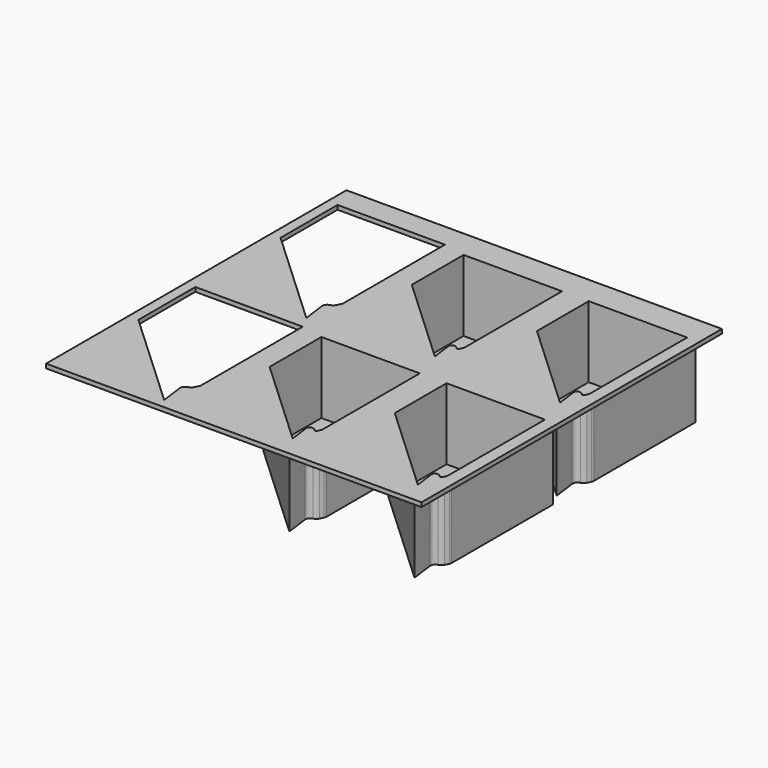
from build123d import *

# Parameters (mm, degrees)
F1_DEPTH = 38.1
F0_W     = 190.5
F0_H     = 190.5
F2_DEPTH = 2.159
F5_DEPTH = 1.905


with BuildPart() as f1:
    # F0 (on Top) → F1 (new body)
    with BuildSketch(Plane.XY):
        with BuildLine():
            ThreePointArc((72.0782338403, -72.4890221543), (72.2764898364, -71.9390746235), (72.3437630109, -71.358366395))
            Line((72.3437630109, -71.358366395), (72.3437630109, -6.9999878642))
            Line((72.3437630109, -6.9999878642), (17.8223712996, -6.9999878642))
            Line((17.8223712996, -6.9999878642), (17.8223712996, -43.112684))
            Line((17.8223712996, -43.112684), (68.7632503296, -90.4163775524))
            Line((68.7632503296, -90.4163775524), (67.2103853279, -78.6976437184))
            ThreePointArc((67.2103853279, -78.6976437184), (67.642280367, -76.9149091055), (69.1621273878, -75.8879032349))
            ThreePointArc((69.1621273878, -75.8879032349), (70.34845738, -75.3207077832), (71.1778330484, -74.3003031911))
            Line((71.1778330484, -74.3003031911), (72.0782338403, -72.4890221543))
        make_face()
        with BuildLine():
            Line((65.6623095274, -84.4172274415), (20.1083738357, -42.115848763))
            Line((20.1083738357, -42.115848763), (20.1083738357, -9.2859904003))
            Line((20.1083738357, -9.2859904003), (70.0577604748, -9.2859904003))
            Line((70.0577604748, -9.2859904003), (70.0577604748, -71.418016501))
            Line((70.0577604748, -71.418016501), (69.1308070309, -73.2827118787))
            ThreePointArc((69.1308070309, -73.2827118787), (68.5904715317, -73.6707487579), (67.9656927684, -73.4423049611))
            Line((67.9656927684, -73.4423049611), (67.7194629988, -73.1691417889))
            ThreePointArc((67.7194629988, -73.1691417889), (66.7984934635, -72.5458506783), (65.6932154198, -72.4232246633))
            Line((65.6932154198, -72.4232246633), (65.5843092936, -72.4376559588))
            ThreePointArc((65.5843092936, -72.4376559588), (64.5929725961, -73.0111207367), (64.297492528, -74.1176024711))
            Line((64.297492528, -74.1176024711), (65.6623095274, -84.4172274415))
        make_face(mode=Mode.SUBTRACT)
    extrude(amount=-F1_DEPTH)



with BuildPart() as f1b:
    # F0 (on Top) → F1, piece 2 (new body)
    with BuildSketch(Plane.XY):
        with BuildLine():
            Line((17.8223712996, 83.1700121358), (17.8223712996, 47.057316))
            Line((17.8223712996, 47.057316), (68.7632503296, -0.2463775524))
            Line((68.7632503296, -0.2463775524), (67.2103853279, 11.4723562816))
            ThreePointArc((67.2103853279, 11.4723562816), (67.642280367, 13.2550908945), (69.1621273878, 14.2820967651))
            ThreePointArc((69.1621273878, 14.2820967651), (70.34845738, 14.8492922168), (71.1778330484, 15.8696968089))
            Line((71.1778330484, 15.8696968089), (72.0782338403, 17.6809778457))
            ThreePointArc((72.0782338403, 17.6809778457), (72.2764898364, 18.2309253765), (72.3437630109, 18.811633605))
            Line((72.3437630109, 18.811633605), (72.3437630109, 83.1700121358))
            Line((72.3437630109, 83.1700121358), (17.8223712996, 83.1700121358))
        make_face()
        with BuildLine():
            Line((20.1083738357, 48.054151237), (20.1083738357, 80.8840095997))
            Line((20.1083738357, 80.8840095997), (70.0577604748, 80.8840095997))
            Line((70.0577604748, 80.8840095997), (70.0577604748, 18.751983499))
            Line((70.0577604748, 18.751983499), (69.1308070309, 16.8872881213))
            ThreePointArc((69.1308070309, 16.8872881213), (68.5904715317, 16.4992512421), (67.9656927684, 16.7276950389))
            Line((67.9656927684, 16.7276950389), (67.7194629988, 17.0008582111))
            ThreePointArc((67.7194629988, 17.0008582111), (66.7984934635, 17.6241493217), (65.6932154198, 17.7467753367))
            Line((65.6932154198, 17.7467753367), (65.5843092936, 17.7323440412))
            ThreePointArc((65.5843092936, 17.7323440412), (64.5929725961, 17.1588792633), (64.297492528, 16.0523975289))
            Line((64.297492528, 16.0523975289), (65.6623095274, 5.7527725585))
            Line((65.6623095274, 5.7527725585), (20.1083738357, 48.054151237))
        make_face(mode=Mode.SUBTRACT)
    extrude(amount=-F1_DEPTH)


with BuildPart() as f1c:
    # F0 (on Top) → F1, piece 3 (new body)
    with BuildSketch(Plane.XY):
        with BuildLine():
            ThreePointArc((8.5782338403, 17.6809778457), (8.7764898364, 18.2309253765), (8.8437630109, 18.811633605))
            Line((8.8437630109, 18.811633605), (8.8437630109, 83.1700121358))
            Line((8.8437630109, 83.1700121358), (-45.6776287004, 83.1700121358))
            Line((-45.6776287004, 83.1700121358), (-45.6776287004, 47.057316))
            Line((-45.6776287004, 47.057316), (5.2632503296, -0.2463775524))
            Line((5.2632503296, -0.2463775524), (3.7103853279, 11.4723562816))
            ThreePointArc((3.7103853279, 11.4723562816), (4.142280367, 13.2550908945), (5.6621273878, 14.2820967651))
            ThreePointArc((5.6621273878, 14.2820967651), (6.84845738, 14.8492922168), (7.6778330484, 15.8696968089))
            Line((7.6778330484, 15.8696968089), (8.5782338403, 17.6809778457))
        make_face()
        with BuildLine():
            Line((2.1623095274, 5.7527725585), (-43.3916261643, 48.054151237))
            Line((-43.3916261643, 48.054151237), (-43.3916261643, 80.8840095997))
            Line((-43.3916261643, 80.8840095997), (6.5577604748, 80.8840095997))
            Line((6.5577604748, 80.8840095997), (6.5577604748, 18.751983499))
            Line((6.5577604748, 18.751983499), (5.6308070309, 16.8872881213))
            ThreePointArc((5.6308070309, 16.8872881213), (5.0904715317, 16.4992512421), (4.4656927684, 16.7276950389))
            Line((4.4656927684, 16.7276950389), (4.2194629988, 17.0008582111))
            ThreePointArc((4.2194629988, 17.0008582111), (3.2984934635, 17.6241493217), (2.1932154198, 17.7467753367))
            Line((2.1932154198, 17.7467753367), (2.0843092936, 17.7323440412))
            ThreePointArc((2.0843092936, 17.7323440412), (1.0929725961, 17.1588792633), (0.797492528, 16.0523975289))
            Line((0.797492528, 16.0523975289), (2.1623095274, 5.7527725585))
        make_face(mode=Mode.SUBTRACT)
    extrude(amount=-F1_DEPTH)


with BuildPart() as f1d:
    # F0 (on Top) → F1, piece 4 (new body)
    with BuildSketch(Plane.XY):
        with BuildLine():
            ThreePointArc((8.5782338403, -72.4890221543), (8.7764898364, -71.9390746235), (8.8437630109, -71.358366395))
            Line((8.8437630109, -71.358366395), (8.8437630109, -6.9999878642))
            Line((8.8437630109, -6.9999878642), (-45.6776287004, -6.9999878642))
            Line((-45.6776287004, -6.9999878642), (-45.6776287004, -43.112684))
            Line((-45.6776287004, -43.112684), (5.2632503296, -90.4163775524))
            Line((5.2632503296, -90.4163775524), (3.7103853279, -78.6976437184))
            ThreePointArc((3.7103853279, -78.6976437184), (4.142280367, -76.9149091055), (5.6621273878, -75.8879032349))
            ThreePointArc((5.6621273878, -75.8879032349), (6.84845738, -75.3207077832), (7.6778330484, -74.3003031911))
            Line((7.6778330484, -74.3003031911), (8.5782338403, -72.4890221543))
        make_face()
        with BuildLine():
            Line((2.1623095274, -84.4172274415), (-43.3916261643, -42.115848763))
            Line((-43.3916261643, -42.115848763), (-43.3916261643, -9.2859904003))
            Line((-43.3916261643, -9.2859904003), (6.5577604748, -9.2859904003))
            Line((6.5577604748, -9.2859904003), (6.5577604748, -71.418016501))
            Line((6.5577604748, -71.418016501), (5.6308070309, -73.2827118787))
            ThreePointArc((5.6308070309, -73.2827118787), (5.0904715317, -73.6707487579), (4.4656927684, -73.4423049611))
            Line((4.4656927684, -73.4423049611), (4.2194629988, -73.1691417889))
            ThreePointArc((4.2194629988, -73.1691417889), (3.2984934635, -72.5458506783), (2.1932154198, -72.4232246633))
            Line((2.1932154198, -72.4232246633), (2.0843092936, -72.4376559588))
            ThreePointArc((2.0843092936, -72.4376559588), (1.0929725961, -73.0111207367), (0.797492528, -74.1176024711))
            Line((0.797492528, -74.1176024711), (2.1623095274, -84.4172274415))
        make_face(mode=Mode.SUBTRACT)
    extrude(amount=-F1_DEPTH)


with BuildPart() as f1_1:
    add(f1.part)

    add(f1b.part)  # F2 merges F1b

    add(f1c.part)  # F2 merges F1c

    add(f1d.part)  # F2 merges F1d
    # F0 (on Top) → F2 (join)
    with BuildSketch(Plane.XY):
        with Locations((-19.05, 0)):
            Rectangle(F0_W, F0_H)
        with BuildLine():
            Line((-54.6562369891, -6.9999878642), (-54.6562369891, -71.358366395))
            ThreePointArc((-54.6562369891, -71.358366395), (-54.7235101636, -71.9390746235), (-54.9217661597, -72.4890221543))
            Line((-54.9217661597, -72.4890221543), (-55.8221669516, -74.3003031911))
            ThreePointArc((-55.8221669516, -74.3003031911), (-56.65154262, -75.3207077832), (-57.8378726122, -75.8879032349))
            ThreePointArc((-57.8378726122, -75.8879032349), (-59.357719633, -76.9149091055), (-59.7896146721, -78.6976437184))
            Line((-59.7896146721, -78.6976437184), (-58.2367496704, -90.4163775524))
            Line((-58.2367496704, -90.4163775524), (-109.1776287004, -43.112684))
            Line((-109.1776287004, -43.112684), (-109.1776287004, -6.9999878642))
            Line((-109.1776287004, -6.9999878642), (-54.6562369891, -6.9999878642))
        make_face(mode=Mode.SUBTRACT)
        with BuildLine():
            Line((8.8437630109, -6.9999878642), (8.8437630109, -71.358366395))
            ThreePointArc((8.8437630109, -71.358366395), (8.7764898364, -71.9390746235), (8.5782338403, -72.4890221543))
            Line((8.5782338403, -72.4890221543), (7.6778330484, -74.3003031911))
            ThreePointArc((7.6778330484, -74.3003031911), (6.84845738, -75.3207077832), (5.6621273878, -75.8879032349))
            ThreePointArc((5.6621273878, -75.8879032349), (4.142280367, -76.9149091055), (3.7103853279, -78.6976437184))
            Line((3.7103853279, -78.6976437184), (5.2632503296, -90.4163775524))
            Line((5.2632503296, -90.4163775524), (-45.6776287004, -43.112684))
            Line((-45.6776287004, -43.112684), (-45.6776287004, -6.9999878642))
            Line((-45.6776287004, -6.9999878642), (8.8437630109, -6.9999878642))
        make_face(mode=Mode.SUBTRACT)
        with BuildLine():
            Line((72.3437630109, -6.9999878642), (72.3437630109, -71.358366395))
            ThreePointArc((72.3437630109, -71.358366395), (72.2764898364, -71.9390746235), (72.0782338403, -72.4890221543))
            Line((72.0782338403, -72.4890221543), (71.1778330484, -74.3003031911))
            ThreePointArc((71.1778330484, -74.3003031911), (70.34845738, -75.3207077832), (69.1621273878, -75.8879032349))
            ThreePointArc((69.1621273878, -75.8879032349), (67.642280367, -76.9149091055), (67.2103853279, -78.6976437184))
            Line((67.2103853279, -78.6976437184), (68.7632503296, -90.4163775524))
            Line((68.7632503296, -90.4163775524), (17.8223712996, -43.112684))
            Line((17.8223712996, -43.112684), (17.8223712996, -6.9999878642))
            Line((17.8223712996, -6.9999878642), (72.3437630109, -6.9999878642))
        make_face(mode=Mode.SUBTRACT)
        with BuildLine():
            Line((-54.6562369891, 83.1700121358), (-54.6562369891, 18.811633605))
            ThreePointArc((-54.6562369891, 18.811633605), (-54.7235101636, 18.2309253765), (-54.9217661597, 17.6809778457))
            Line((-54.9217661597, 17.6809778457), (-55.8221669516, 15.8696968089))
            ThreePointArc((-55.8221669516, 15.8696968089), (-56.65154262, 14.8492922168), (-57.8378726122, 14.2820967651))
            ThreePointArc((-57.8378726122, 14.2820967651), (-59.357719633, 13.2550908945), (-59.7896146721, 11.4723562816))
            Line((-59.7896146721, 11.4723562816), (-58.2367496704, -0.2463775524))
            Line((-58.2367496704, -0.2463775524), (-109.1776287004, 47.057316))
            Line((-109.1776287004, 47.057316), (-109.1776287004, 83.1700121358))
            Line((-109.1776287004, 83.1700121358), (-54.6562369891, 83.1700121358))
        make_face(mode=Mode.SUBTRACT)
        with BuildLine():
            Line((8.8437630109, 83.1700121358), (8.8437630109, 18.811633605))
            ThreePointArc((8.8437630109, 18.811633605), (8.7764898364, 18.2309253765), (8.5782338403, 17.6809778457))
            Line((8.5782338403, 17.6809778457), (7.6778330484, 15.8696968089))
            ThreePointArc((7.6778330484, 15.8696968089), (6.84845738, 14.8492922168), (5.6621273878, 14.2820967651))
            ThreePointArc((5.6621273878, 14.2820967651), (4.142280367, 13.2550908945), (3.7103853279, 11.4723562816))
            Line((3.7103853279, 11.4723562816), (5.2632503296, -0.2463775524))
            Line((5.2632503296, -0.2463775524), (-45.6776287004, 47.057316))
            Line((-45.6776287004, 47.057316), (-45.6776287004, 83.1700121358))
            Line((-45.6776287004, 83.1700121358), (8.8437630109, 83.1700121358))
        make_face(mode=Mode.SUBTRACT)
        with BuildLine():
            Line((68.7632503296, -0.2463775524), (17.8223712996, 47.057316))
            Line((17.8223712996, 47.057316), (17.8223712996, 83.1700121358))
            Line((17.8223712996, 83.1700121358), (72.3437630109, 83.1700121358))
            Line((72.3437630109, 83.1700121358), (72.3437630109, 18.811633605))
            ThreePointArc((72.3437630109, 18.811633605), (72.2764898364, 18.2309253765), (72.0782338403, 17.6809778457))
            Line((72.0782338403, 17.6809778457), (71.1778330484, 15.8696968089))
            ThreePointArc((71.1778330484, 15.8696968089), (70.34845738, 14.8492922168), (69.1621273878, 14.2820967651))
            ThreePointArc((69.1621273878, 14.2820967651), (67.642280367, 13.2550908945), (67.2103853279, 11.4723562816))
            Line((67.2103853279, 11.4723562816), (68.7632503296, -0.2463775524))
        make_face(mode=Mode.SUBTRACT)
    extrude(amount=-F2_DEPTH)

    # F4 (on offset) → F5 (join)
    with BuildSketch(Plane(origin=(0, 0, -38.1), x_dir=(1, 0, 0), z_dir=(0, 0, -1))):
        with BuildLine():
            ThreePointArc((72.3437630109, -18.811633605), (72.2764898364, -18.2309253765), (72.0782338403, -17.6809778457))
            Line((72.0782338403, -17.6809778457), (71.1778330484, -15.8696968089))
            ThreePointArc((71.1778330484, -15.8696968089), (70.34845738, -14.8492922168), (69.1621273878, -14.2820967651))
            ThreePointArc((69.1621273878, -14.2820967651), (67.642280367, -13.2550908945), (67.2103853279, -11.4723562816))
            Line((67.2103853279, -11.4723562816), (68.7632503296, 0.2463775524))
            Line((68.7632503296, 0.2463775524), (17.8223712996, -47.057316))
            Line((17.8223712996, -47.057316), (17.8223712996, -83.1700121358))
            Line((17.8223712996, -83.1700121358), (72.3437630109, -83.1700121358))
            Line((72.3437630109, -83.1700121358), (72.3437630109, -18.811633605))
        make_face()
        with BuildLine():
            ThreePointArc((7.6778330484, -15.8696968089), (6.84845738, -14.8492922168), (5.6621273878, -14.2820967651))
            ThreePointArc((5.6621273878, -14.2820967651), (4.142280367, -13.2550908945), (3.7103853279, -11.4723562816))
            Line((3.7103853279, -11.4723562816), (5.2632503296, 0.2463775524))
            Line((5.2632503296, 0.2463775524), (-45.6776287004, -47.057316))
            Line((-45.6776287004, -47.057316), (-45.6776287004, -83.1700121358))
            Line((-45.6776287004, -83.1700121358), (8.8437630109, -83.1700121358))
            Line((8.8437630109, -83.1700121358), (8.8437630109, -18.811633605))
            ThreePointArc((8.8437630109, -18.811633605), (8.7764898364, -18.2309253765), (8.5782338403, -17.6809778457))
            Line((8.5782338403, -17.6809778457), (7.6778330484, -15.8696968089))
        make_face()
        with BuildLine():
            ThreePointArc((71.1778330484, 74.3003031911), (70.34845738, 75.3207077832), (69.1621273878, 75.8879032349))
            ThreePointArc((69.1621273878, 75.8879032349), (67.642280367, 76.9149091055), (67.2103853279, 78.6976437184))
            Line((67.2103853279, 78.6976437184), (68.7632503296, 90.4163775524))
            Line((68.7632503296, 90.4163775524), (17.8223712996, 43.112684))
            Line((17.8223712996, 43.112684), (17.8223712996, 6.9999878642))
            Line((17.8223712996, 6.9999878642), (72.3437630109, 6.9999878642))
            Line((72.3437630109, 6.9999878642), (72.3437630109, 71.358366395))
            ThreePointArc((72.3437630109, 71.358366395), (72.2764898364, 71.9390746235), (72.0782338403, 72.4890221543))
            Line((72.0782338403, 72.4890221543), (71.1778330484, 74.3003031911))
        make_face()
        with BuildLine():
            ThreePointArc((7.6778330484, 74.3003031911), (6.84845738, 75.3207077832), (5.6621273878, 75.8879032349))
            ThreePointArc((5.6621273878, 75.8879032349), (4.142280367, 76.9149091055), (3.7103853279, 78.6976437184))
            Line((3.7103853279, 78.6976437184), (5.2632503296, 90.4163775524))
            Line((5.2632503296, 90.4163775524), (-45.6776287004, 43.112684))
            Line((-45.6776287004, 43.112684), (-45.6776287004, 6.9999878642))
            Line((-45.6776287004, 6.9999878642), (8.8437630109, 6.9999878642))
            Line((8.8437630109, 6.9999878642), (8.8437630109, 71.358366395))
            ThreePointArc((8.8437630109, 71.358366395), (8.7764898364, 71.9390746235), (8.5782338403, 72.4890221543))
            Line((8.5782338403, 72.4890221543), (7.6778330484, 74.3003031911))
        make_face()
    extrude(amount=-F5_DEPTH)


solid = f1_1.part
